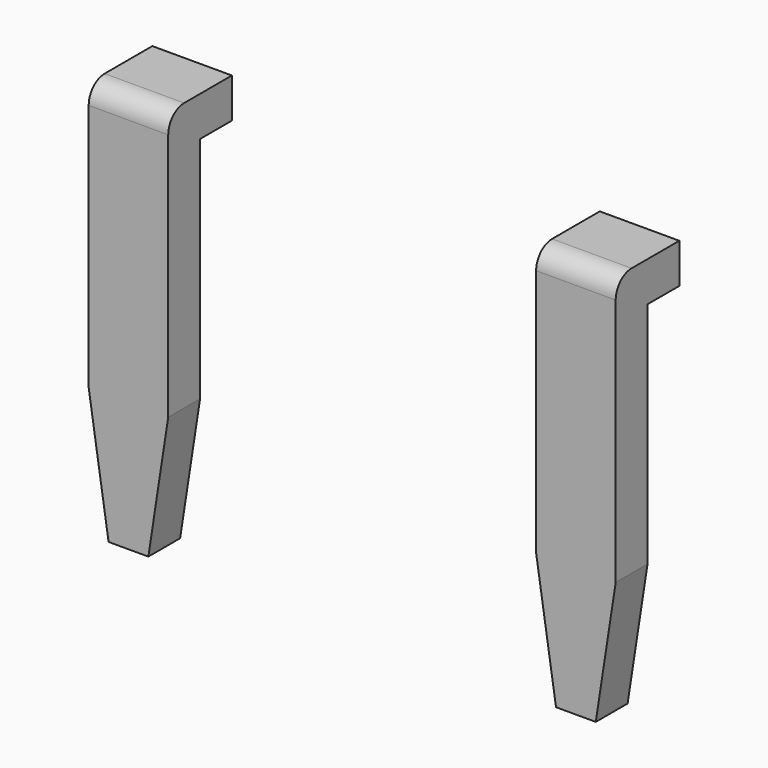
from build123d import *

# Parameters (mm, degrees)
BOX002_W        = 0.8
BOX002_H        = 0.4
BOX002_DEPTH    = 0.4
BOX001_W        = 0.8
BOX001_H        = 0.4
BOX001_DEPTH    = 4
CHAMFER_1_SIZE2 = 0.2
CHAMFER_1_SIZE  = 1.3
CHAMFER_2_SIZE2 = 0.2
CHAMFER_2_SIZE  = 1.3
FILLET_R        = 0.2
ARRAY_X_COUNT   = 2
ARRAY_X_PITCH   = 4.5


with BuildPart() as cube002:
    # Box002 → Box002 (new body)
    with BuildSketch(Plane(origin=(-2.65, -3.05, 0.6), x_dir=(1, 0, 0), z_dir=(0, 0, 1))):
        with Locations((0.4, 0.2)):
            Rectangle(BOX002_W, BOX002_H)
    extrude(amount=BOX002_DEPTH)


with BuildPart() as array:
    # Box001 → Box001 (new body)
    with BuildSketch(Plane(origin=(-2.65, -3.45, -3), x_dir=(1, 0, 0), z_dir=(0, 0, 1))):
        with Locations((0.4, 0.2)):
            Rectangle(BOX001_W, BOX001_H)
    extrude(amount=BOX001_DEPTH)

    # Chamfer 1
    chamfer_1_edges = [array.edges().sort_by_distance(p)[0] for p in [
        (-1.85, -3.25, -3),
    ]]
    chamfer_1_side = array.faces().sort_by_distance((-1.85, -3.25, -1))[0]
    chamfer(chamfer_1_edges, length=CHAMFER_1_SIZE, length2=CHAMFER_1_SIZE2, reference=chamfer_1_side)

    # Chamfer 2
    chamfer_2_edges = [array.edges().sort_by_distance(p)[0] for p in [
        (-2.65, -3.25, -3),
    ]]
    chamfer_2_side = array.faces().sort_by_distance((-2.65, -3.25, -1))[0]
    chamfer(chamfer_2_edges, length=CHAMFER_2_SIZE, length2=CHAMFER_2_SIZE2, reference=chamfer_2_side)

    # Fillet
    fillet_edges = [array.edges().sort_by_distance(p)[0] for p in [
        (-2.25, -3.45, 1),
    ]]
    fillet(fillet_edges, radius=FILLET_R)

    # Fusion: union Cube002
    add(cube002.part)

    # Array X: Array ×2


with BuildPart() as array_1:
    add(array.part)
    with Locations(*[(i * ARRAY_X_PITCH, 0, 0) for i in range(1, ARRAY_X_COUNT)]):
        add(array.part)


solid = array_1.part
